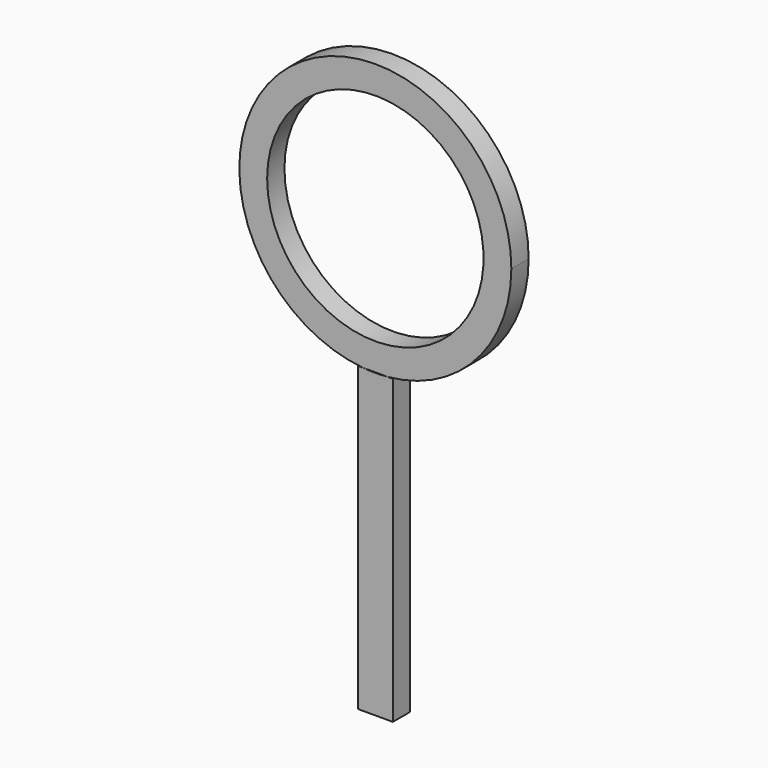
from build123d import *

# Parameters (mm, degrees)
F1_DEPTH = 2.54
F3_D     = 25.4


with BuildPart() as f1:
    # F0 (on Front) → F1 (new body)
    with BuildSketch(Plane.XZ):
        with BuildLine():
            Line((-1.4393192273, 17.7287627012), (1.4393192273, 17.7287627012))
            ThreePointArc((1.4393192273, 17.7287627012), (11.785157871, 22.8599728714), (15.9626004865, 33.6263403296))
            ThreePointArc((15.9626004865, 33.6263403296), (-10.7663674583, 45.4114982007), (-1.4393192273, 17.7287627012))
        make_face()
    extrude(amount=F1_DEPTH)

    # F3 (through all)
    with Locations(Plane.XZ.offset(2.54)):
        with Locations((0, 33.6263403296)):
            Hole(F3_D / 2)


with BuildPart() as f1b:
    # F0 (on Front) → F1, piece 2 (new body)
    with BuildSketch(Plane.XZ):
        with BuildLine():
            Line((-2.0534733776, -17.7287627012), (2.0534733776, -17.7287627012))
            Line((2.0534733776, -17.7287627012), (2.0534733776, 17.7287627012))
            Line((2.0534733776, 17.7287627012), (1.4393192273, 17.7287627012))
            ThreePointArc((1.4393192273, 17.7287627012), (0, 17.6637398431), (-1.4393192273, 17.7287627012))
            Line((-1.4393192273, 17.7287627012), (-2.0534733776, 17.7287627012))
            Line((-2.0534733776, 17.7287627012), (-2.0534733776, -17.7287627012))
        make_face()
    extrude(amount=F1_DEPTH)


solid = Compound([f1.part, f1b.part])
